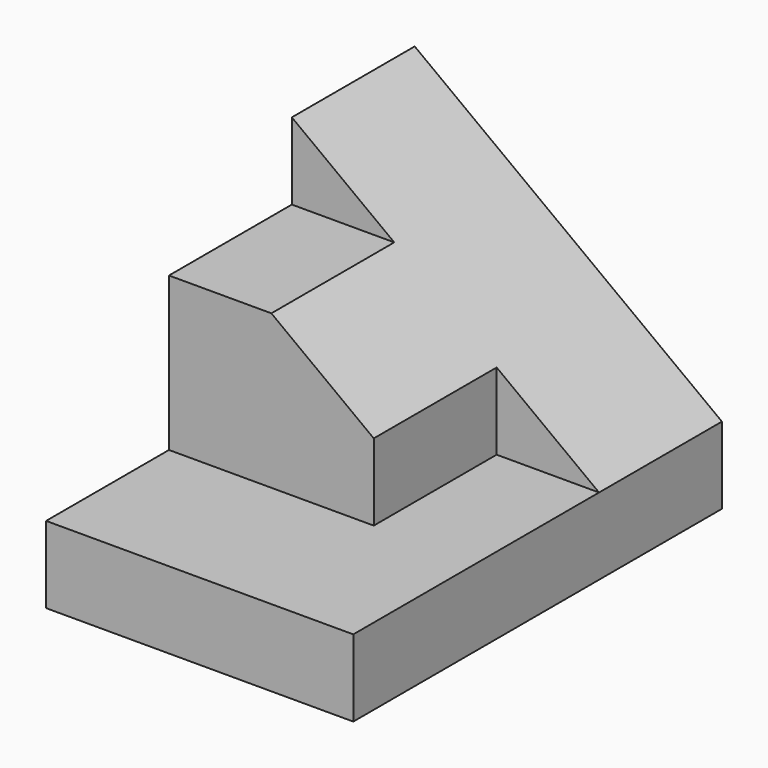
from build123d import *

# Parameters (mm, degrees)
F0_W     = 25.4
F0_H     = 6.35
F1_DEPTH = 38.1
F3_DEPTH = 12.7
F5_DEPTH = 12.7


with BuildPart() as f1:
    # F0 (on Front) → F1 (new body)
    with BuildSketch(Plane.XZ):
        Polygon((0, 25.4), (0, 6.35), (25.4, 6.35), align=None)
        with Locations((12.7, 3.175)):
            Rectangle(F0_W, F0_H)
    extrude(amount=F1_DEPTH)

    # F2 (on face) → F3 (cut)
    with BuildSketch(Plane.XZ.offset(38.1)):
        Polygon((0, 25.4), (0, 6.35), (25.4, 6.35), align=None)
    extrude(amount=-F3_DEPTH, mode=Mode.SUBTRACT)

    # F4 (on face) → F5 (cut)
    with BuildSketch(Plane.XZ.offset(25.4)):
        Polygon((8.466667, 19.05), (0, 25.4), (0, 19.05), align=None)
        Polygon((25.4, 6.35), (16.933333, 12.7), (16.933333, 6.35), align=None)
    extrude(amount=-F5_DEPTH, mode=Mode.SUBTRACT)


solid = f1.part
